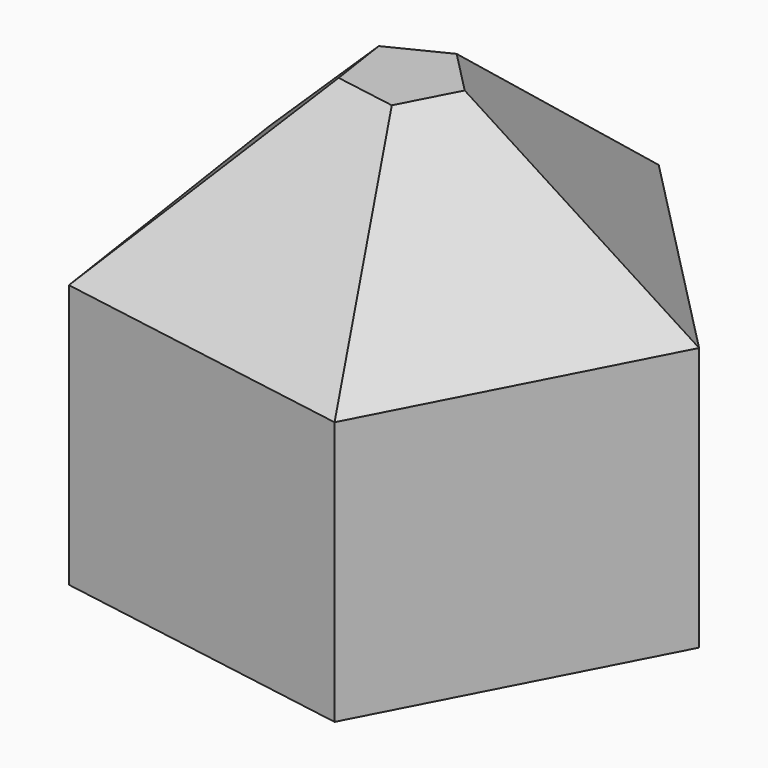
from build123d import *

# Parameters (mm, degrees)
F1_DEPTH = 50.8
F2_SIZE  = 20


with BuildPart() as f1:
    # F0 (on Top) → F1 (new body)
    with BuildSketch(Plane.XY):
        Polygon((13.774368, -27.66192), (30.564563, 4.552199), (5.115571, 30.475334), (-27.402966, 14.282593), (-22.051536, -21.648205), align=None)
    extrude(amount=F1_DEPTH)

    # F2
    f2_edges = [f1.edges().sort_by_distance(p)[0] for p in [
        (-4.138584, -24.655063, 50.8),
        (22.169465, -11.554861, 50.8),
        (17.840067, 17.513766, 50.8),
        (-11.143697, 22.378964, 50.8),
        (-24.727251, -3.682806, 50.8),
    ]]
    chamfer(f2_edges, length=F2_SIZE)


solid = f1.part
